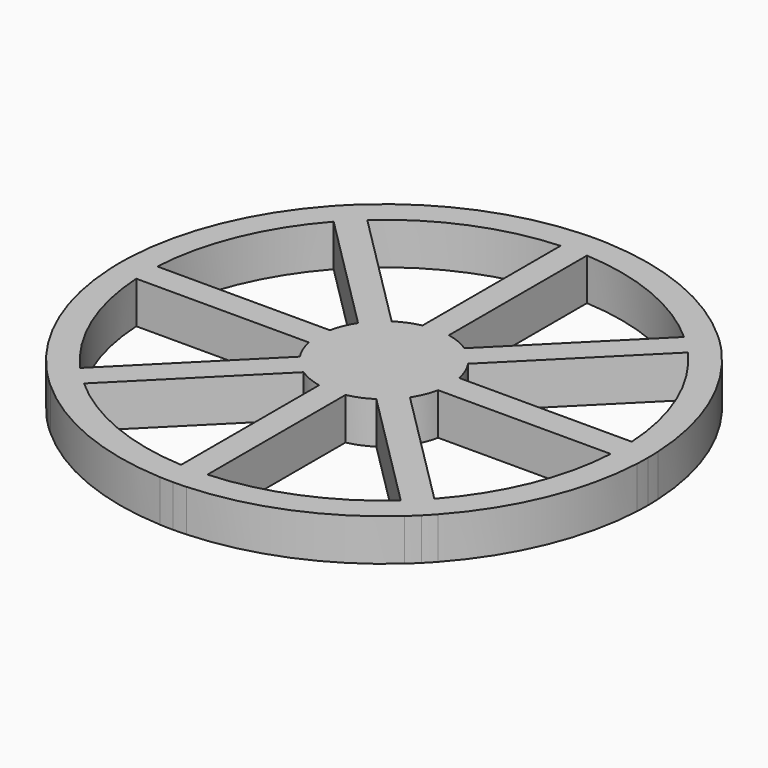
from build123d import *

# Parameters (mm, degrees)
F1_DEPTH = 6.35


with BuildPart() as f1:
    # F0 (on Top) → F1 (new body)
    with BuildSketch(Plane.XY):
        with BuildLine():
            ThreePointArc((-24.0023164919, 26.8307436167), (-13.7766035651, 33.2596631704), (-2, 35.9444015112))
            Line((-2, 35.9444015112), (-2, 39.9499687109))
            ThreePointArc((-2, 39.9499687109), (-15.3073372946, 36.9551813005), (-26.8346802213, 29.663107346))
            Line((-26.8346802213, 29.663107346), (-24.0023164919, 26.8307436167))
        make_face()
        with BuildLine():
            Line((2, 35.9444015112), (2, 39.9499687109))
            ThreePointArc((2, 39.9499687109), (1.0003128423, 39.9874902215), (0, 40))
            ThreePointArc((0, 40), (-1.0003128423, 39.9874902215), (-2, 39.9499687109))
            Line((-2, 39.9499687109), (-2, 35.9444015112))
            ThreePointArc((-2, 35.9444015112), (0, 36), (2, 35.9444015112))
        make_face()
        with BuildLine():
            Line((24.0023164919, 26.8307436167), (26.8346802213, 29.663107346))
            ThreePointArc((26.8346802213, 29.663107346), (15.3073372946, 36.9551813005), (2, 39.9499687109))
            Line((2, 39.9499687109), (2, 35.9444015112))
            ThreePointArc((2, 35.9444015112), (13.7766035651, 33.2596631704), (24.0023164919, 26.8307436167))
        make_face()
        with BuildLine():
            Line((26.8307436167, 24.0023164919), (29.663107346, 26.8346802213))
            ThreePointArc((29.663107346, 26.8346802213), (28.9827534924, 27.5680975042), (28.2842712475, 28.2842712475))
            ThreePointArc((28.2842712475, 28.2842712475), (27.5680975042, 28.9827534924), (26.8346802213, 29.663107346))
            Line((26.8346802213, 29.663107346), (24.0023164919, 26.8307436167))
            ThreePointArc((24.0023164919, 26.8307436167), (25.4558441227, 25.4558441227), (26.8307436167, 24.0023164919))
        make_face()
        with BuildLine():
            Line((35.9444015112, 2), (39.9499687109, 2))
            ThreePointArc((39.9499687109, 2), (36.9551813005, 15.3073372946), (29.663107346, 26.8346802213))
            Line((29.663107346, 26.8346802213), (26.8307436167, 24.0023164919))
            ThreePointArc((26.8307436167, 24.0023164919), (33.2596631704, 13.7766035651), (35.9444015112, 2))
        make_face()
        with BuildLine():
            ThreePointArc((39.9499687109, -2), (39.9874902215, -1.0003128423), (40, 0))
            ThreePointArc((40, 0), (39.9874902215, 1.0003128423), (39.9499687109, 2))
            Line((39.9499687109, 2), (35.9444015112, 2))
            ThreePointArc((35.9444015112, 2), (35.9860976934, 1.0003863244), (36, 0))
            ThreePointArc((36, 0), (35.9860976934, -1.0003863244), (35.9444015112, -2))
            Line((35.9444015112, -2), (39.9499687109, -2))
        make_face()
        with BuildLine():
            ThreePointArc((29.663107346, -26.8346802213), (36.9551813005, -15.3073372946), (39.9499687109, -2))
            Line((39.9499687109, -2), (35.9444015112, -2))
            ThreePointArc((35.9444015112, -2), (33.2596631704, -13.7766035651), (26.8307436167, -24.0023164919))
            Line((26.8307436167, -24.0023164919), (29.663107346, -26.8346802213))
        make_face()
        with BuildLine():
            ThreePointArc((28.2842712475, -28.2842712475), (28.9827534924, -27.5680975042), (29.663107346, -26.8346802213))
            Line((29.663107346, -26.8346802213), (26.8307436167, -24.0023164919))
            ThreePointArc((26.8307436167, -24.0023164919), (25.4558441227, -25.4558441227), (24.0023164919, -26.8307436167))
            Line((24.0023164919, -26.8307436167), (26.8346802213, -29.663107346))
            ThreePointArc((26.8346802213, -29.663107346), (27.5680975042, -28.9827534924), (28.2842712475, -28.2842712475))
        make_face()
        with BuildLine():
            ThreePointArc((2, -39.9499687109), (15.3073372946, -36.9551813005), (26.8346802213, -29.663107346))
            Line((26.8346802213, -29.663107346), (24.0023164919, -26.8307436167))
            ThreePointArc((24.0023164919, -26.8307436167), (13.7766035651, -33.2596631704), (2, -35.9444015112))
            Line((2, -35.9444015112), (2, -39.9499687109))
        make_face()
        with BuildLine():
            ThreePointArc((0, -40), (1.0003128423, -39.9874902215), (2, -39.9499687109))
            Line((2, -39.9499687109), (2, -35.9444015112))
            ThreePointArc((2, -35.9444015112), (0, -36), (-2, -35.9444015112))
            Line((-2, -35.9444015112), (-2, -39.9499687109))
            ThreePointArc((-2, -39.9499687109), (-1.0003128423, -39.9874902215), (0, -40))
        make_face()
        with BuildLine():
            Line((-2, -39.9499687109), (-2, -35.9444015112))
            ThreePointArc((-2, -35.9444015112), (-13.7766035651, -33.2596631704), (-24.0023164919, -26.8307436167))
            Line((-24.0023164919, -26.8307436167), (-26.8346802213, -29.663107346))
            ThreePointArc((-26.8346802213, -29.663107346), (-15.3073372946, -36.9551813005), (-2, -39.9499687109))
        make_face()
        with BuildLine():
            Line((-26.8346802213, -29.663107346), (-24.0023164919, -26.8307436167))
            ThreePointArc((-24.0023164919, -26.8307436167), (-25.4558441227, -25.4558441227), (-26.8307436167, -24.0023164919))
            Line((-26.8307436167, -24.0023164919), (-29.663107346, -26.8346802213))
            ThreePointArc((-29.663107346, -26.8346802213), (-28.9827534924, -27.5680975042), (-28.2842712475, -28.2842712475))
            ThreePointArc((-28.2842712475, -28.2842712475), (-27.5680975042, -28.9827534924), (-26.8346802213, -29.663107346))
        make_face()
        with BuildLine():
            Line((-29.663107346, -26.8346802213), (-26.8307436167, -24.0023164919))
            ThreePointArc((-26.8307436167, -24.0023164919), (-33.2596631704, -13.7766035651), (-35.9444015112, -2))
            Line((-35.9444015112, -2), (-39.9499687109, -2))
            ThreePointArc((-39.9499687109, -2), (-36.9551813005, -15.3073372946), (-29.663107346, -26.8346802213))
        make_face()
        with BuildLine():
            ThreePointArc((-35.9444015112, -2), (-36, 0), (-35.9444015112, 2))
            Line((-35.9444015112, 2), (-39.9499687109, 2))
            ThreePointArc((-39.9499687109, 2), (-39.9874902215, 1.0003128423), (-40, 0))
            ThreePointArc((-40, 0), (-39.9874902215, -1.0003128423), (-39.9499687109, -2))
            Line((-39.9499687109, -2), (-35.9444015112, -2))
        make_face()
        with BuildLine():
            ThreePointArc((-35.9444015112, 2), (-33.2596631704, 13.7766035651), (-26.8307436167, 24.0023164919))
            Line((-26.8307436167, 24.0023164919), (-29.663107346, 26.8346802213))
            ThreePointArc((-29.663107346, 26.8346802213), (-36.9551813005, 15.3073372946), (-39.9499687109, 2))
            Line((-39.9499687109, 2), (-35.9444015112, 2))
        make_face()
        with BuildLine():
            ThreePointArc((-26.8307436167, 24.0023164919), (-25.4558441227, 25.4558441227), (-24.0023164919, 26.8307436167))
            Line((-24.0023164919, 26.8307436167), (-26.8346802213, 29.663107346))
            ThreePointArc((-26.8346802213, 29.663107346), (-27.5680974995, 28.9827534968), (-28.2842712383, 28.2842712566))
            ThreePointArc((-28.2842712383, 28.2842712566), (-28.9827534879, 27.5680975089), (-29.663107346, 26.8346802213))
            Line((-29.663107346, 26.8346802213), (-26.8307436167, 24.0023164919))
        make_face()
        with BuildLine():
            Line((2, 9.7979589711), (2, 35.9444015112))
            ThreePointArc((2, 35.9444015112), (0, 36), (-2, 35.9444015112))
            Line((-2, 35.9444015112), (-2, 9.7979589711))
            ThreePointArc((-2, 9.7979589711), (0, 10), (2, 9.7979589711))
        make_face()
        with BuildLine():
            Line((8.3424167926, 5.5139896679), (26.8307436167, 24.0023164919))
            ThreePointArc((26.8307436167, 24.0023164919), (25.4558441227, 25.4558441227), (24.0023164919, 26.8307436167))
            Line((24.0023164919, 26.8307436167), (5.5139896679, 8.3424167926))
            ThreePointArc((5.5139896679, 8.3424167926), (7.0710678119, 7.0710678119), (8.3424167926, 5.5139896679))
        make_face()
        with BuildLine():
            ThreePointArc((36, 0), (35.9860976934, 1.0003863244), (35.9444015112, 2))
            Line((35.9444015112, 2), (9.7979589711, 2))
            ThreePointArc((9.7979589711, 2), (9.9493615301, 1.0050896201), (10, 0))
            ThreePointArc((10, 0), (9.9493615301, -1.0050896201), (9.7979589711, -2))
            Line((9.7979589711, -2), (35.9444015112, -2))
            ThreePointArc((35.9444015112, -2), (35.9860976934, -1.0003863244), (36, 0))
        make_face()
        with BuildLine():
            Line((-5.5139896679, 8.3424167926), (-24.0023164919, 26.8307436167))
            ThreePointArc((-24.0023164919, 26.8307436167), (-25.4558441227, 25.4558441227), (-26.8307436167, 24.0023164919))
            Line((-26.8307436167, 24.0023164919), (-8.3424167926, 5.5139896679))
            ThreePointArc((-8.3424167926, 5.5139896679), (-7.0710678119, 7.0710678119), (-5.5139896679, 8.3424167926))
        make_face()
        with BuildLine():
            Line((-9.7979589711, 2), (-35.9444015112, 2))
            ThreePointArc((-35.9444015112, 2), (-36, 0), (-35.9444015112, -2))
            Line((-35.9444015112, -2), (-9.7979589711, -2))
            ThreePointArc((-9.7979589711, -2), (-10, 0), (-9.7979589711, 2))
        make_face()
        with BuildLine():
            ThreePointArc((-26.8307436167, -24.0023164919), (-25.4558441227, -25.4558441227), (-24.0023164919, -26.8307436167))
            Line((-24.0023164919, -26.8307436167), (-5.5139896679, -8.3424167926))
            ThreePointArc((-5.5139896679, -8.3424167926), (-7.0710678119, -7.0710678119), (-8.3424167926, -5.5139896679))
            Line((-8.3424167926, -5.5139896679), (-26.8307436167, -24.0023164919))
        make_face()
        with BuildLine():
            ThreePointArc((-2, -35.9444015112), (0, -36), (2, -35.9444015112))
            Line((2, -35.9444015112), (2, -9.7979589711))
            ThreePointArc((2, -9.7979589711), (0, -10), (-2, -9.7979589711))
            Line((-2, -9.7979589711), (-2, -35.9444015112))
        make_face()
        with BuildLine():
            ThreePointArc((24.0023164919, -26.8307436167), (25.4558441227, -25.4558441227), (26.8307436167, -24.0023164919))
            Line((26.8307436167, -24.0023164919), (8.3424167926, -5.5139896679))
            ThreePointArc((8.3424167926, -5.5139896679), (7.0710678119, -7.0710678119), (5.5139896679, -8.3424167926))
            Line((5.5139896679, -8.3424167926), (24.0023164919, -26.8307436167))
        make_face()
        with BuildLine():
            ThreePointArc((10, 0), (9.9493615301, 1.0050896201), (9.7979589711, 2))
            Line((9.7979589711, 2), (4.8284271247, 2))
            Line((4.8284271247, 2), (2.8284271247, 0))
            Line((2.8284271247, 0), (4.8284271247, -2))
            Line((4.8284271247, -2), (9.7979589711, -2))
            ThreePointArc((9.7979589711, -2), (9.9493615301, -1.0050896201), (10, 0))
        make_face()
        with BuildLine():
            Line((4.8284271247, 2), (9.7979589711, 2))
            ThreePointArc((9.7979589711, 2), (9.2387953251, 3.8268343237), (8.3424167926, 5.5139896679))
            Line((8.3424167926, 5.5139896679), (4.8284271247, 2))
        make_face()
        with BuildLine():
            Line((4.8284271247, 2), (8.3424167926, 5.5139896679))
            ThreePointArc((8.3424167926, 5.5139896679), (7.0710678119, 7.0710678119), (5.5139896679, 8.3424167926))
            Line((5.5139896679, 8.3424167926), (2, 4.8284271247))
            Line((2, 4.8284271247), (2, 2))
            Line((2, 2), (4.8284271247, 2))
        make_face()
        with BuildLine():
            Line((2, 4.8284271247), (5.5139896679, 8.3424167926))
            ThreePointArc((5.5139896679, 8.3424167926), (3.8268343237, 9.2387953251), (2, 9.7979589711))
            Line((2, 9.7979589711), (2, 4.8284271247))
        make_face()
        with BuildLine():
            Line((2, 4.8284271247), (2, 9.7979589711))
            ThreePointArc((2, 9.7979589711), (0, 10), (-2, 9.7979589711))
            Line((-2, 9.7979589711), (-2, 4.8284271247))
            Line((-2, 4.8284271247), (0, 2.8284271247))
            Line((0, 2.8284271247), (2, 4.8284271247))
        make_face()
        with BuildLine():
            Line((-2, 4.8284271247), (-2, 9.7979589711))
            ThreePointArc((-2, 9.7979589711), (-3.8268343237, 9.2387953251), (-5.5139896679, 8.3424167926))
            Line((-5.5139896679, 8.3424167926), (-2, 4.8284271247))
        make_face()
        with BuildLine():
            Line((-2, 4.8284271247), (-5.5139896679, 8.3424167926))
            ThreePointArc((-5.5139896679, 8.3424167926), (-7.0710678119, 7.0710678119), (-8.3424167926, 5.5139896679))
            Line((-8.3424167926, 5.5139896679), (-4.8284271247, 2))
            Line((-4.8284271247, 2), (-2, 2))
            Line((-2, 2), (-2, 4.8284271247))
        make_face()
        with BuildLine():
            ThreePointArc((2, -9.7979589711), (3.8268343237, -9.2387953251), (5.5139896679, -8.3424167926))
            Line((5.5139896679, -8.3424167926), (2, -4.8284271247))
            Line((2, -4.8284271247), (2, -9.7979589711))
        make_face()
        with BuildLine():
            ThreePointArc((5.5139896679, -8.3424167926), (7.0710678119, -7.0710678119), (8.3424167926, -5.5139896679))
            Line((8.3424167926, -5.5139896679), (4.8284271247, -2))
            Line((4.8284271247, -2), (2, -2))
            Line((2, -2), (2, -4.8284271247))
            Line((2, -4.8284271247), (5.5139896679, -8.3424167926))
        make_face()
        with BuildLine():
            ThreePointArc((8.3424167926, -5.5139896679), (9.2387953251, -3.8268343237), (9.7979589711, -2))
            Line((9.7979589711, -2), (4.8284271247, -2))
            Line((4.8284271247, -2), (8.3424167926, -5.5139896679))
        make_face()
        Polygon((2, -2), (4.8284271247, -2), (2.8284271247, 0), (2, -0.8284271247), align=None)
        Polygon((2, -4.8284271247), (2, -2), (0.8284271247, -2), (0, -2.8284271247), align=None)
        with BuildLine():
            ThreePointArc((-5.5139896679, -8.3424167926), (-3.8268343237, -9.2387953251), (-2, -9.7979589711))
            Line((-2, -9.7979589711), (-2, -4.8284271247))
            Line((-2, -4.8284271247), (-5.5139896679, -8.3424167926))
        make_face()
        with BuildLine():
            ThreePointArc((-2, -9.7979589711), (0, -10), (2, -9.7979589711))
            Line((2, -9.7979589711), (2, -4.8284271247))
            Line((2, -4.8284271247), (0, -2.8284271247))
            Line((0, -2.8284271247), (-2, -4.8284271247))
            Line((-2, -4.8284271247), (-2, -9.7979589711))
        make_face()
        with BuildLine():
            ThreePointArc((-8.3424167926, -5.5139896679), (-7.0710678119, -7.0710678119), (-5.5139896679, -8.3424167926))
            Line((-5.5139896679, -8.3424167926), (-2, -4.8284271247))
            Line((-2, -4.8284271247), (-2, -2))
            Line((-2, -2), (-4.8284271247, -2))
            Line((-4.8284271247, -2), (-8.3424167926, -5.5139896679))
        make_face()
        with BuildLine():
            ThreePointArc((-9.7979589711, -2), (-9.2387953251, -3.8268343237), (-8.3424167926, -5.5139896679))
            Line((-8.3424167926, -5.5139896679), (-4.8284271247, -2))
            Line((-4.8284271247, -2), (-9.7979589711, -2))
        make_face()
        with BuildLine():
            Line((-2.8284271247, 0), (-4.8284271247, 2))
            Line((-4.8284271247, 2), (-9.7979589711, 2))
            ThreePointArc((-9.7979589711, 2), (-10, 0), (-9.7979589711, -2))
            Line((-9.7979589711, -2), (-4.8284271247, -2))
            Line((-4.8284271247, -2), (-2.8284271247, 0))
        make_face()
        with BuildLine():
            Line((-4.8284271247, 2), (-8.3424167926, 5.5139896679))
            ThreePointArc((-8.3424167926, 5.5139896679), (-9.2387953251, 3.8268343237), (-9.7979589711, 2))
            Line((-9.7979589711, 2), (-4.8284271247, 2))
        make_face()
        Polygon((-4.8284271247, -2), (-2, -2), (-2, -0.8284271247), (-2.8284271247, 0), align=None)
        Polygon((-2, -4.8284271247), (0, -2.8284271247), (-0.8284271247, -2), (-2, -2), align=None)
        Polygon((0, -2.8284271247), (0.8284271247, -2), (-0.8284271247, -2), align=None)
        Polygon((0.8284271247, -2), (2, -2), (2, -0.8284271247), align=None)
        Polygon((2, -0.8284271247), (2.8284271247, 0), (2, 0.8284271247), align=None)
        Polygon((2.8284271247, 0), (4.8284271247, 2), (2, 2), (2, 0.8284271247), align=None)
        Polygon((0.8284271247, 2), (2, 2), (2, 4.8284271247), (0, 2.8284271247), align=None)
        Polygon((2, 0.8284271247), (2, 2), (0.8284271247, 2), align=None)
        Polygon((-0.8284271247, 2), (0, 2.8284271247), (-2, 4.8284271247), (-2, 2), align=None)
        Polygon((-0.8284271247, 2), (0.8284271247, 2), (0, 2.8284271247), align=None)
        Polygon((-2, 0.8284271247), (-2, 2), (-4.8284271247, 2), (-2.8284271247, 0), align=None)
        Polygon((2, -0.8284271247), (2, 0.8284271247), (0.8284271247, 2), (-0.8284271247, 2), (-2, 0.8284271247), (-2, -0.8284271247), (-0.8284271247, -2), (0.8284271247, -2), align=None)
        Polygon((-2, 0.8284271247), (-0.8284271247, 2), (-2, 2), align=None)
        Polygon((-2, -0.8284271247), (-2, 0.8284271247), (-2.8284271247, 0), align=None)
        Polygon((-2, -2), (-0.8284271247, -2), (-2, -0.8284271247), align=None)
    extrude(amount=F1_DEPTH)


solid = f1.part
